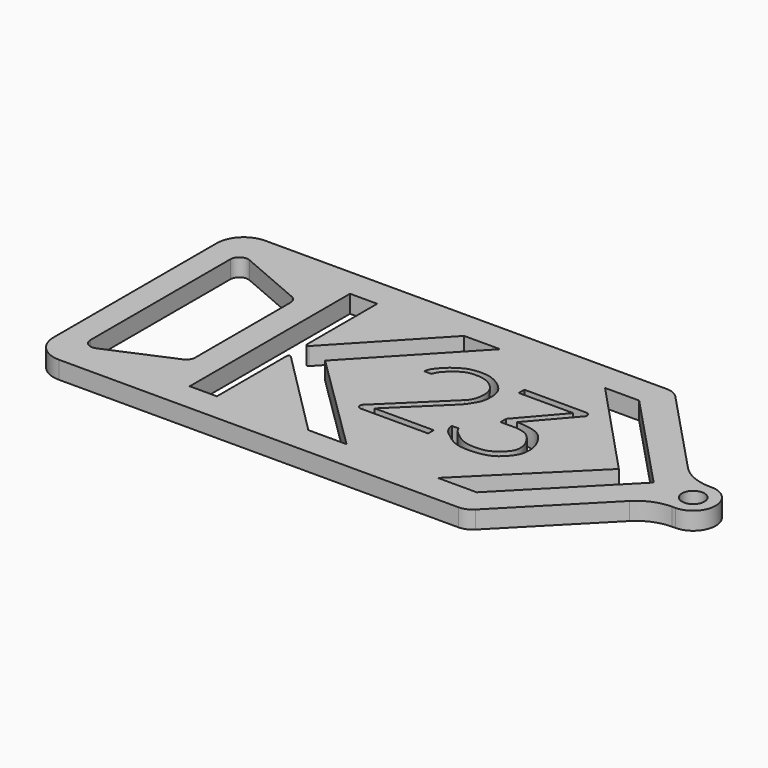
from build123d import *

# Parameters (mm, degrees)
F0_R     = 1.5875
F1_DEPTH = 2.5
F2_R     = 2.54


with BuildPart() as f1:
    # F0 (on Top) → F1 (new body)
    with BuildSketch(Plane.XY):
        with BuildLine():
            Line((-41.0152355528, -28.9283943789), (-83.6689737264, -28.9283943789))
            Line((-83.6689737264, -28.9283943789), (-87.4789737264, -28.9283943789))
            Line((-87.4789737264, -28.9283943789), (-98.9089737264, -28.9283943789))
            ThreePointArc((-98.9089737264, -28.9283943789), (-101.6030505627, -30.0443175425), (-102.7189737264, -32.7383943789))
            Line((-102.7189737264, -32.7383943789), (-102.7189737264, -61.5947266498))
            ThreePointArc((-102.7189737264, -61.5947266498), (-101.6030505627, -64.2888034862), (-98.9089737264, -65.4047266498))
            Line((-98.9089737264, -65.4047266498), (-87.4789737264, -65.4047266498))
            Line((-87.4789737264, -65.4047266498), (-41.3551884672, -65.4047266498))
            Line((-41.3551884672, -65.4047266498), (-28.6049409392, -52.4405066828))
            ThreePointArc((-28.6049409392, -52.4405066828), (-26.5320333811, -51.0366436001), (-24.0776068467, -50.5431178285))
            Line((-24.0776068467, -50.5431178285), (-23.616271076, -50.5431178285))
            ThreePointArc((-23.616271076, -50.5431178285), (-20.441271076, -47.3681178285), (-23.616271076, -44.1931178285))
            Line((-23.616271076, -44.1931178285), (-23.8731620434, -44.1931178285))
            ThreePointArc((-23.8731620434, -44.1931178285), (-26.3881027231, -43.6738616385), (-28.4917367837, -42.2010149553))
            Line((-28.4917367837, -42.2010149553), (-41.0152355528, -28.9283943789))
        make_face()
        with BuildLine():
            Line((-87.4789737264, -38.7319225374), (-87.4789737264, -55.6011984912))
            ThreePointArc((-87.4789737264, -55.6011984912), (-87.6883146152, -56.2996984912), (-88.2473237264, -56.7679235135))
            Line((-88.2473237264, -56.7679235135), (-97.3745739487, -60.6923144255))
            ThreePointArc((-97.3745739487, -60.6923144255), (-98.5747239487, -60.5862485143), (-99.1462239487, -59.5255894032))
            Line((-99.1462239487, -59.5255894032), (-99.1462239487, -34.8075316255))
            ThreePointArc((-99.1462239487, -34.8075316255), (-98.5747239487, -33.7468725144), (-97.3745739487, -33.6408066032))
            Line((-97.3745739487, -33.6408066032), (-88.2473237264, -37.5651975152))
            ThreePointArc((-88.2473237264, -37.5651975152), (-87.6883146152, -38.0334225374), (-87.4789737264, -38.7319225374))
        make_face(mode=Mode.SUBTRACT)
        with Locations((-23.616271076, -47.3681178285)):
            Circle(F0_R, mode=Mode.SUBTRACT)
        with BuildLine():
            Line((-79.8243296973, -61.3407266498), (-83.6689737264, -61.3407266498))
            Line((-83.6689737264, -61.3407266498), (-83.6689737264, -32.9923943789))
            Line((-83.6689737264, -32.9923943789), (-79.8243296973, -32.9923943789))
            Line((-79.8243296973, -32.9923943789), (-79.8243296973, -45.4158016981))
            ThreePointArc((-79.8243296973, -45.4158016981), (-79.663991169, -45.6519023731), (-79.3854042743, -45.5899240342))
            Line((-79.3854042743, -45.5899240342), (-67.5238048367, -32.9923943789))
            Line((-67.5238048367, -32.9923943789), (-62.4358447909, -32.9923943789))
            Line((-62.4358447909, -32.9923943789), (-75.8236845664, -47.2004434557))
            Line((-75.8236845664, -47.2004434557), (-61.4791962959, -61.3407266498))
            Line((-61.4791962959, -61.3407266498), (-66.8869413145, -61.3407266498))
            Line((-66.8869413145, -61.3407266498), (-79.3904819469, -48.8033353869))
            ThreePointArc((-79.3904819469, -48.8033353869), (-79.6673726553, -48.7479665064), (-79.8243296973, -48.9826975531))
            Line((-79.8243296973, -48.9826975531), (-79.8243296973, -61.3407266498))
        make_face(mode=Mode.SUBTRACT)
        with BuildLine():
            Line((-56.0491662414, -52.7064142697), (-56.0491662414, -53.7064142697))
            Line((-56.0491662414, -53.7064142697), (-65.6084735286, -53.7064142697))
            ThreePointArc((-65.6084735286, -53.7064142697), (-66.0790264975, -53.3898402436), (-65.9631036874, -52.8346816063))
            Line((-65.9631036874, -52.8346816063), (-57.8748524364, -44.9488409501))
            add(Edge.make_bspline(
                [(-57.8748524364, -44.9488409501), (-57.6049079559, -44.6730310721), (-57.2910442328, -44.2109427065), (-57.0308173033, -43.3419786526), (-56.9649609015, -42.1059422972), (-57.2966631965, -41.135278444), (-58.1102664249, -40.2494052595), (-59.214207262, -39.6088278482), (-60.5584739912, -39.4710491862), (-61.6751855798, -39.5391321579), (-62.582367941, -39.9651658421), (-63.5788131113, -40.7564134967), (-64.3123788508, -41.4887184359), (-64.5630558851, -42.0690269456), (-64.6835764579, -42.348038143)],
                knots=[0, 0, 0, 0, 0.0777716176, 0.1525772623, 0.2407062995, 0.3208838627, 0.4070461152, 0.4968929668, 0.5893793296, 0.6730011837, 0.7522191079, 0.8422857258, 0.9236075646, 1, 1, 1, 1], degree=3))
            Line((-64.6835764579, -42.348038143), (-65.6835764579, -42.348038143))
            add(Edge.make_bspline(
                [(-65.6835764579, -42.348038143), (-65.6515655123, -42.1421899083), (-65.5820777825, -41.694238449), (-65.0582514394, -40.9627592012), (-64.1794204143, -40.0158728312), (-63.3281081882, -39.4341147601), (-62.2591063744, -38.8400608506), (-61.2194906793, -38.6897793207), (-60.2602251239, -38.6333500559), (-59.0191125498, -38.7882136948), (-57.873134978, -39.415683311), (-57.1009283372, -39.9821708278), (-56.2655215131, -40.9547734855), (-56.0399812771, -42.1269606472), (-56.0716875853, -43.3932037705), (-56.3161760872, -44.2924937446), (-57.0294053116, -45.4197264118), (-57.4954419049, -45.9755554042)],
                knots=[0, 0, 0, 0, 0.0499471301, 0.1091397519, 0.1804215081, 0.2449513234, 0.3137047776, 0.3776027552, 0.438928529, 0.5089179669, 0.5801119853, 0.6419666187, 0.7113707942, 0.7801545863, 0.849417254, 0.9099237356, 1, 1, 1, 1], degree=3))
            Line((-57.4954419049, -45.9755554042), (-64.3990657561, -52.7064142697))
            Line((-64.3990657561, -52.7064142697), (-56.0491662414, -52.7064142697))
        make_face(mode=Mode.SUBTRACT)
        with BuildLine():
            Line((-54.2867301789, -39.8876867653), (-54.2867301789, -38.8876867653))
            Line((-54.2867301789, -38.8876867653), (-45.5011243311, -38.8876867653))
            ThreePointArc((-45.5011243311, -38.8876867653), (-45.0391027641, -39.184499475), (-45.1169783359, -39.7280959324))
            Line((-45.1169783359, -39.7280959324), (-45.821296443, -40.5420355194))
            Line((-45.821296443, -40.5420355194), (-50.0757914916, -45.4587086929))
            add(Edge.make_bspline(
                [(-55.1404660268, -50.6513416474), (-55.1284046046, -50.9186383241), (-54.9653893117, -51.4901529696), (-54.5370885412, -52.1094507073), (-53.7140381482, -52.7578312376), (-52.5435463443, -53.6257710039), (-51.1403303214, -54.0508174033), (-48.8815100408, -54.0440888692), (-46.8253675304, -53.4994028314), (-45.491779462, -52.1008756074), (-44.7578878398, -50.8692584268), (-44.7779583918, -49.1909650381), (-45.1802731622, -47.9556314846), (-46.2051304446, -46.3725933113), (-47.4802688433, -45.7383972623), (-49.0628839063, -45.4526923808), (-49.7646579429, -45.4568607193), (-50.0757914916, -45.4587086929)],
                knots=[0, 0, 0, 0, 0.0511129754, 0.0990891446, 0.1559622878, 0.2229057363, 0.2902636551, 0.373846771, 0.4552028401, 0.5311912045, 0.5975458909, 0.6677145395, 0.7322717578, 0.8071985683, 0.8739396412, 0.9441260045, 1, 1, 1, 1], degree=3))
            Line((-55.1404660268, -50.6513416474), (-54.1404660268, -50.6513416474))
            add(Edge.make_bspline(
                [(-49.1829052277, -46.5828324155), (-48.9268844142, -46.6194922488), (-48.3914715263, -46.6961583908), (-47.4896344277, -47.0473375248), (-46.8541600039, -47.7104967338), (-46.3344533483, -48.4741719236), (-45.8647784487, -49.574264874), (-45.9287442462, -50.9459537276), (-46.9862918054, -52.0396121919), (-48.1631440033, -52.8729201188), (-49.4146488492, -53.0537518116), (-51.2516154736, -53.0702952634), (-52.7087247232, -52.2777887091), (-53.829527649, -51.3371938826), (-54.0618401661, -50.9410469965), (-54.1404660268, -50.6513416474)],
                knots=[0, 0, 0, 0, 0.0629071045, 0.1315027411, 0.1983181189, 0.2658748322, 0.3423216722, 0.4222263447, 0.5078476883, 0.5914521489, 0.6701043426, 0.7643463369, 0.8560118243, 0.9390366353, 1, 1, 1, 1], degree=3))
            Line((-49.1829052277, -46.5828324155), (-51.505612107, -46.5828324155))
            Line((-51.505612107, -46.5828324155), (-51.505612107, -45.5828324155))
            Line((-51.505612107, -45.5828324155), (-46.577489347, -39.8876867653))
            Line((-46.577489347, -39.8876867653), (-54.2867301789, -39.8876867653))
        make_face(mode=Mode.SUBTRACT)
        Polygon((-47.5893848285, -32.9923943789), (-42.7681369416, -32.9923943789), (-29.2589323304, -47.3096830535), (-43.0583957292, -61.3407266498), (-48.5677089251, -61.3407266498), (-34.2946959369, -47.1738673802), align=None, mode=Mode.SUBTRACT)
    extrude(amount=F1_DEPTH)

    # F2
    f2_edges = [f1.edges().sort_by_distance(p)[0] for p in [
        (-41.015236, -28.928394, 1.25),
        (-41.355188, -65.404727, 1.25),
    ]]
    fillet(f2_edges, radius=F2_R)


solid = f1.part
